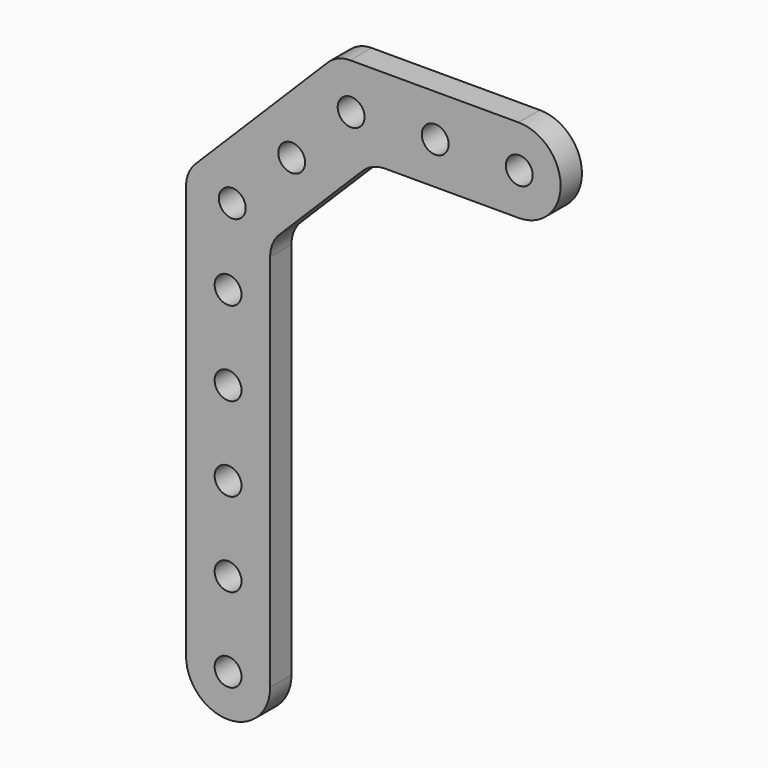
from build123d import *

# Parameters (mm, degrees)
F0_R     = 1.6
F1_DEPTH = 3.175


with BuildPart() as f1:
    # F0 (on Front) → F1 (new body)
    with BuildSketch(Plane.XZ):
        with BuildLine():
            Line((0, -19.538666), (0, -68.760512))
            ThreePointArc((0, -68.760512), (5, -73.760512), (10, -68.760512))
            Line((10, -68.760512), (10, -23.680802))
            ThreePointArc((10, -23.680802), (10.290019, -22.222778), (11.115923, -20.986725))
            Line((11.115923, -20.986725), (20.986725, -11.115923))
            ThreePointArc((20.986725, -11.115923), (22.222778, -10.290019), (23.680802, -10))
            Line((23.680802, -10), (39.550512, -10))
            ThreePointArc((39.550512, -10), (44.550512, -5), (39.550512, 0))
            Line((39.550512, 0), (19.538666, 0))
            ThreePointArc((19.538666, 0), (18.080642, -0.290019), (16.844589, -1.115923))
            Line((16.844589, -1.115923), (1.115923, -16.844589))
            ThreePointArc((1.115923, -16.844589), (0.290019, -18.080642), (0, -19.538666))
        make_face()
        with Locations((5, -68.760512)):
            Circle(F0_R, mode=Mode.SUBTRACT)
        with Locations((5, -58.760512)):
            Circle(F0_R, mode=Mode.SUBTRACT)
        with Locations((5, -48.760512)):
            Circle(F0_R, mode=Mode.SUBTRACT)
        with Locations((5, -38.760512)):
            Circle(F0_R, mode=Mode.SUBTRACT)
        with Locations((5, -28.760512)):
            Circle(F0_R, mode=Mode.SUBTRACT)
        with Locations((5.492914, -19.538666)):
            Circle(F0_R, mode=Mode.SUBTRACT)
        with Locations((12.563982, -12.467598)):
            Circle(F0_R, mode=Mode.SUBTRACT)
        with Locations((19.63505, -5.39653)):
            Circle(F0_R, mode=Mode.SUBTRACT)
        with Locations((29.63505, -5)):
            Circle(F0_R, mode=Mode.SUBTRACT)
        with Locations((39.63505, -5)):
            Circle(F0_R, mode=Mode.SUBTRACT)
    extrude(amount=F1_DEPTH)


solid = f1.part
